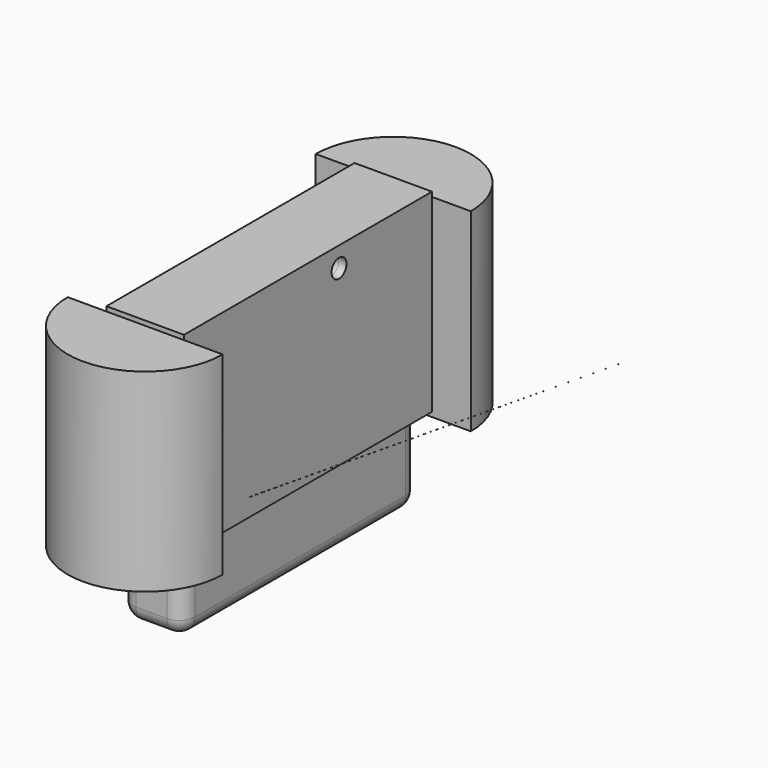
from build123d import *

# Parameters (mm, degrees)
CYLINDER045_R                = 0.6
CYLINDER045_DEPTH            = 10
CYLINDER044_R                = 0.6
CYLINDER044_DEPTH            = 2
CYLINDER044_ROLL_ANGLE       = 90
SKETCH016_R                  = 0.6
SWEEP007_PITCH_ANGLE         = 90
SKETCH014_R                  = 0.6
SWEEP006_ROLL_ANGLE          = -90
SKETCH018_R                  = 0.6
SWEEP008_ROLL_ANGLE          = -89.995832
SWEEP008_PITCH_ANGLE         = -0.004169
SWEEP008_PLACEMENT_ANGLE     = 90.008336
CYLINDER018_W                = 5
CYLINDER018_H                = 12.5
CYLINDER018_ANGLE            = 180
CYLINDER019_W                = 5
CYLINDER019_H                = 12.5
CYLINDER019_ANGLE            = 180
CYLINDER043_R                = 0.75
CYLINDER043_DEPTH            = 10
CYLINDER042_R                = 0.75
CYLINDER042_DEPTH            = 10
BOX019_W                     = 4
BOX019_H                     = 19
BOX019_DEPTH                 = 5
FILLET004_R                  = 1
FILLET005_R                  = 1
FILLET006_R                  = 1
FILLET007_R                  = 1
BOX018_W                     = 5
BOX018_H                     = 20
BOX018_DEPTH                 = 12.5
FUSION002013_PLACEMENT_ANGLE = 180
CUT064_PLACEMENT_ANGLE       = 180


with BuildPart() as cilindro045:
    # Cylinder045 → Cylinder045 (new body)
    with BuildSketch(Plane(origin=(22, -4, -17), x_dir=(1, 0, 0), z_dir=(0, 0, 1))):
        Circle(CYLINDER045_R)
    extrude(amount=CYLINDER045_DEPTH)


with BuildPart() as cilindro044:
    # Cylinder044 → Cylinder044 (new body)
    with BuildSketch(Plane.XY):
        Circle(CYLINDER044_R)
    extrude(amount=CYLINDER044_DEPTH)


with BuildPart() as cilindro044_1:
    # Cylinder044 roll: moved
    add(cilindro044.part.rotate(Axis((0, 0, 0), (1, 0, 0)), CYLINDER044_ROLL_ANGLE))


with BuildPart() as cilindro044_2:
    # Cylinder044 placement: moved
    add(cilindro044_1.part.moved(Location((22, -8, -4))))


with BuildPart() as sweep007:
    # Sweep007: sweep along a path in Sketch015
    with BuildLine(Plane.XY) as sweep007_path:
        Line((0, 0), (2.000007, 0))
        ThreePointArc((2.000007, 0), (3.413537, 0.585387), (3.999404, 1.998718))
        Line((3.999404, 1.998718), (3.999404, 3.99963))
    # Sketch016 → Sweep007 (sweep)
    with BuildSketch(Plane.YZ):
        Circle(SKETCH016_R)
    sweep(path=sweep007_path.line, transition=Transition.RIGHT)


with BuildPart() as sweep007_1:
    # Sweep007 pitch: moved
    add(sweep007.part.rotate(Axis((0, 0, 0), (0, 1, 0)), SWEEP007_PITCH_ANGLE))


with BuildPart() as sweep007_2:
    # Sweep007 placement: moved
    add(sweep007_1.part.moved(Location((22, -13, 0))))


with BuildPart() as sweep006:
    # Sweep006: sweep along a path in Sketch013
    with BuildLine(Plane.XY) as sweep006_path:
        Line((0, 0), (2.000007, 0))
        ThreePointArc((2.000007, 0), (3.413537, 0.585387), (3.999404, 1.998718))
        Line((3.999404, 1.998718), (3.999404, 3.99963))
    # Sketch014 → Sweep006 (sweep)
    with BuildSketch(Plane.YZ):
        Circle(SKETCH014_R)
    sweep(path=sweep006_path.line, transition=Transition.RIGHT)


with BuildPart() as sweep006_1:
    # Sweep006 roll: moved
    add(sweep006.part.rotate(Axis((0, 0, 0), (1, 0, 0)), SWEEP006_ROLL_ANGLE))


with BuildPart() as sweep006_2:
    # Sweep006 placement: moved
    add(sweep006_1.part.moved(Location((18, -13, 3))))


with BuildPart() as fusion002014:
    # Sweep008: sweep along a path in Sketch017
    with BuildLine(Plane.XY) as sweep008_path:
        Line((0, 0), (2.000007, 0))
        ThreePointArc((2.000007, 0), (3.413537, 0.585387), (3.999404, 1.998718))
        Line((3.999404, 1.998718), (3.999404, 3.99963))
    # Sketch018 → Sweep008 (sweep)
    with BuildSketch(Plane.YZ):
        Circle(SKETCH018_R)
    sweep(path=sweep008_path.line, transition=Transition.RIGHT)


with BuildPart() as fusion002014_1:
    # Sweep008 roll: moved
    add(fusion002014.part.rotate(Axis((0, 0, 0), (1, 0, 0)), SWEEP008_ROLL_ANGLE))


with BuildPart() as fusion002014_2:
    # Sweep008 pitch: moved
    add(fusion002014_1.part.rotate(Axis((0, 0, 0), (0, 1, 0)), SWEEP008_PITCH_ANGLE))


with BuildPart() as fusion002014_3:
    # Sweep008 placement: moved
    add(fusion002014_2.part.moved(Location((22, -8, -4))).rotate(Axis((22, -8, -4), (0, 0, 1)), SWEEP008_PLACEMENT_ANGLE))

    # Fusion002014: union Cilindro045, Cilindro044, Sweep007, Sweep006
    add(cilindro045.part)
    add(cilindro044_2.part)
    add(sweep007_2.part)
    add(sweep006_2.part)


with BuildPart() as fusion002014_4:
    # Fusion002014 placement: moved
    add(fusion002014_3.part.moved(Location((-1.1, 0, 0))))


with BuildPart() as cilindro018:
    # Cylinder018 → Cylinder018 (revolve)
    with BuildSketch(Plane(origin=(21.5, 76, -3), x_dir=(1, 0, 0), z_dir=(0, -1, 0))):
        with Locations((2.5, 6.25)):
            Rectangle(CYLINDER018_W, CYLINDER018_H)
    revolve(axis=Axis((21.5, 76, -3), (0, 0, 1)), revolution_arc=CYLINDER018_ANGLE)


with BuildPart() as cilindro019:
    # Cylinder019 → Cylinder019 (revolve)
    with BuildSketch(Plane(origin=(21.5, 56, 9.5), x_dir=(1, 0, 0), z_dir=(0, 1, 0))):
        with Locations((2.5, 6.25)):
            Rectangle(CYLINDER019_W, CYLINDER019_H)
    revolve(axis=Axis((21.5, 56, 9.5), (0, 0, -1)), revolution_arc=CYLINDER019_ANGLE)


with BuildPart() as cilindro043:
    # Cylinder043 → Cylinder043 (new body)
    with BuildSketch(Plane(origin=(-39, 66, 48), x_dir=(1, 0, 0), z_dir=(0, 0, 1))):
        Circle(CYLINDER043_R)
    extrude(amount=CYLINDER043_DEPTH)


with BuildPart() as cilindro042:
    # Cylinder042 → Cylinder042 (new body)
    with BuildSketch(Plane(origin=(-39, 53, 48), x_dir=(1, 0, 0), z_dir=(0, 0, 1))):
        Circle(CYLINDER042_R)
    extrude(amount=CYLINDER042_DEPTH)


with BuildPart() as cut063:
    # Box019 → Box019 (new body)
    with BuildSketch(Plane(origin=(-2, 50, 45), x_dir=(1, 0, 0), z_dir=(0, 0, 1))):
        with Locations((2, 9.5)):
            Rectangle(BOX019_W, BOX019_H)
    extrude(amount=BOX019_DEPTH)

    # Fillet004
    fillet004_edges = [cut063.edges().sort_by_distance(p)[0] for p in [
        (2, 59.5, 50),
    ]]
    fillet(fillet004_edges, radius=FILLET004_R)

    # Fillet005
    fillet005_edges = [cut063.edges().sort_by_distance(p)[0] for p in [
        (-2, 59.5, 50),
    ]]
    fillet(fillet005_edges, radius=FILLET005_R)

    # Fillet006
    fillet006_edges = [cut063.edges().sort_by_distance(p)[0] for p in [
        (0, 69, 50),
    ]]
    fillet(fillet006_edges, radius=FILLET006_R)

    # Fillet007
    fillet007_edges = [cut063.edges().sort_by_distance(p)[0] for p in [
        (0, 50, 50),
    ]]
    fillet(fillet007_edges, radius=FILLET007_R)


with BuildPart() as cut063_1:
    # Fillet007 placement: moved
    add(cut063.part.moved(Location((-39, 0, 0))))

    # Cut062: cut Cilindro042
    add(cilindro042.part, mode=Mode.SUBTRACT)

    # Cut063: cut Cilindro043
    add(cilindro043.part, mode=Mode.SUBTRACT)


with BuildPart() as cut063_2:
    # Cut063 placement: moved
    add(cut063_1.part.moved(Location((60.5, 6.5, -35.5))))


with BuildPart() as cut064:
    # Box018 → Box018 (new body)
    with BuildSketch(Plane(origin=(19, 56, -3.3), x_dir=(1, 0, 0), z_dir=(0, 0, 1))):
        with Locations((2.5, 10)):
            Rectangle(BOX018_W, BOX018_H)
    extrude(amount=BOX018_DEPTH)

    # Fusion002013: union Cilindro018, Cilindro019, Cut063
    add(cilindro018.part)
    add(cilindro019.part)
    add(cut063_2.part)


with BuildPart() as cut064_1:
    # Fusion002013 placement: moved
    add(cut064.part.moved(Location((42.4, -76.5, 1))).rotate(Axis((42.4, -76.5, 1), (0, 1, 0)), FUSION002013_PLACEMENT_ANGLE))

    # Cut064: cut Fusion002014
    add(fusion002014_4.part, mode=Mode.SUBTRACT)


with BuildPart() as cut064_2:
    # Cut064 placement: moved
    add(cut064_1.part.moved(Location((0.9, -22, -1.7))).rotate(Axis((0.9, -22, -1.7), (0, 0, 1)), CUT064_PLACEMENT_ANGLE))


solid = cut064_2.part
